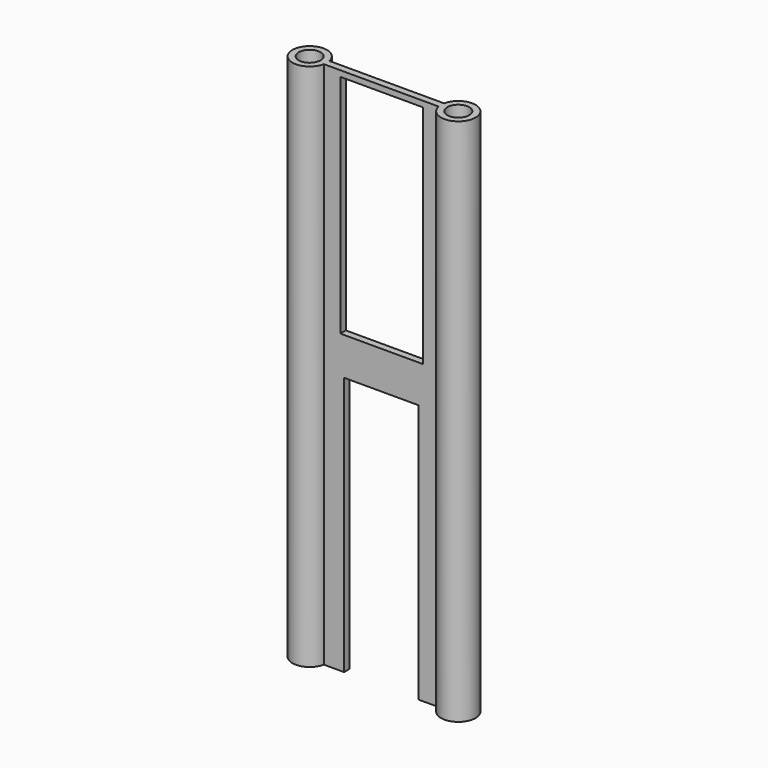
from build123d import *

# Parameters (mm, degrees)
F0_R     = 3.175
F1_DEPTH = 153
F2_W     = 21.5
F2_H     = 75
F2_W_2   = 23.88
F2_H_2   = 65.41
F3_DEPTH = 12.5


with BuildPart() as f1:
    # F0 (on Top) → F1 (new body)
    with BuildSketch(Plane.XY):
        with BuildLine():
            Line((-16.601021, -1), (16.601021, -1))
            ThreePointArc((16.601021, -1), (26.5, 0), (16.601021, 1))
            Line((16.601021, 1), (-16.601021, 1))
            ThreePointArc((-16.601021, 1), (-26.5, 0), (-16.601021, -1))
        make_face()
        with Locations((-21.5, 0)):
            Circle(F0_R, mode=Mode.SUBTRACT)
        with Locations((21.5, 0)):
            Circle(F0_R, mode=Mode.SUBTRACT)
    extrude(amount=F1_DEPTH)

    # F2 (on Front) → F3 (cut, symmetric)
    with BuildSketch(Plane.XZ):
        with Locations((0, 37.5)):
            Rectangle(F2_W, F2_H)
        with Locations((0.08833, 118.608861)):
            Rectangle(F2_W_2, F2_H_2)
    extrude(amount=F3_DEPTH, both=True, mode=Mode.SUBTRACT)


solid = f1.part
